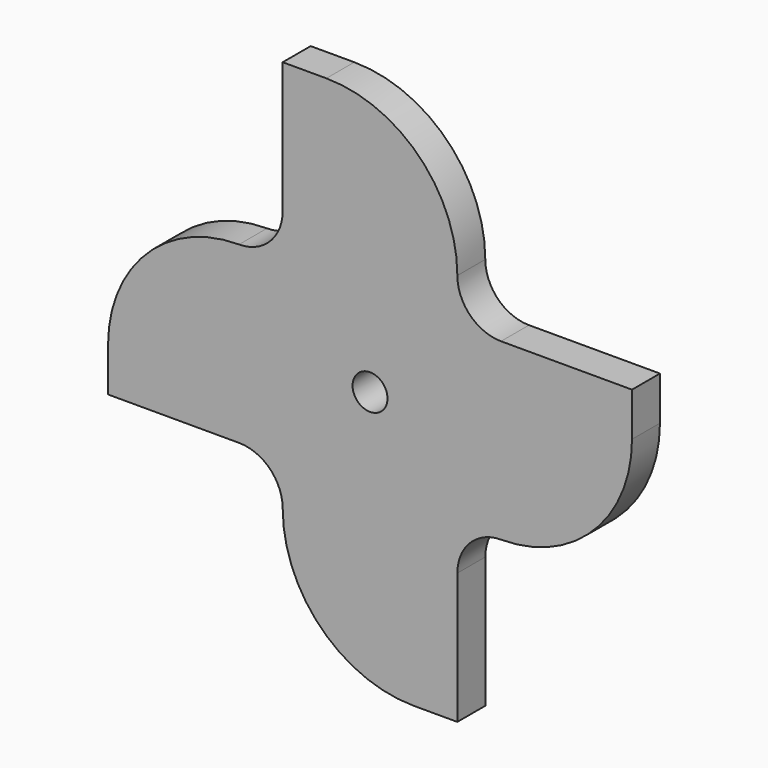
from build123d import *

# Parameters (mm, degrees)
F1_R     = 2
F2_DEPTH = 4


with BuildPart() as f2:
    # F1 (on Front) → F2 (new body)
    with BuildSketch(Plane.XZ):
        with BuildLine():
            ThreePointArc((10, 15), (5.606602, 25.606602), (-5, 30))
            Line((-5, 30), (-10, 30))
            Line((-10, 30), (-10, 15))
            ThreePointArc((-10, 15), (-11.464466, 11.464466), (-15, 10))
            ThreePointArc((-15, 10), (-25.606602, 5.606602), (-30, -5))
            Line((-30, -5), (-30, -10))
            Line((-30, -10), (-15, -10))
            ThreePointArc((-15, -10), (-11.464466, -11.464466), (-10, -15))
            ThreePointArc((-10, -15), (-5.606602, -25.606602), (5, -30))
            Line((5, -30), (10, -30))
            Line((10, -30), (10, -15))
            ThreePointArc((10, -15), (11.464466, -11.464466), (15, -10))
            ThreePointArc((15, -10), (25.606602, -5.606602), (30, 5))
            Line((30, 5), (30, 10))
            Line((30, 10), (15, 10))
            ThreePointArc((15, 10), (11.464466, 11.464466), (10, 15))
        make_face()
        Circle(F1_R, mode=Mode.SUBTRACT)
    extrude(amount=F2_DEPTH)


solid = f2.part
